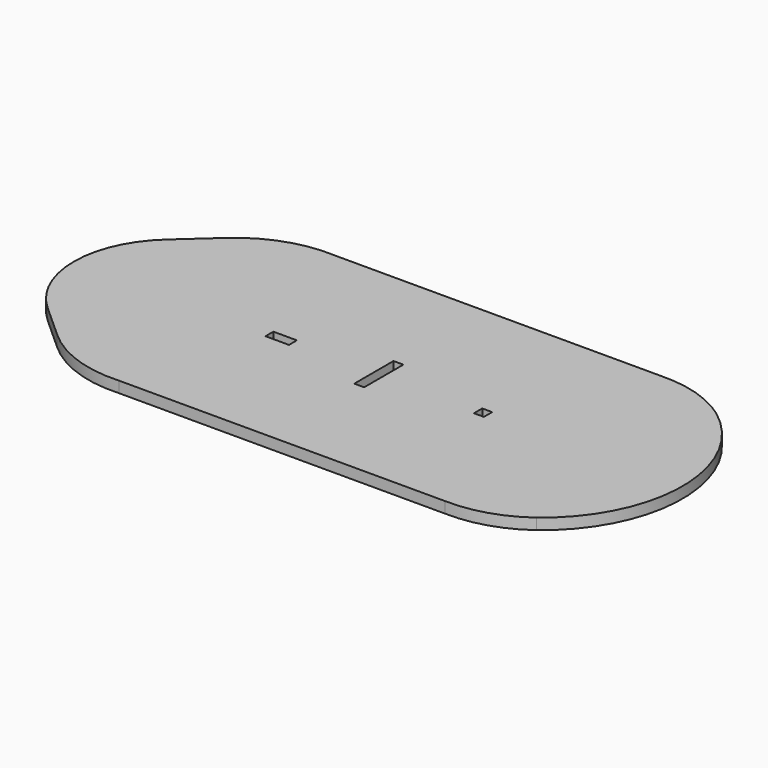
from build123d import *

# Parameters (mm, degrees)
F0_W     = 10
F0_H     = 4.2
F0_W_2   = 4.2
F0_H_2   = 4.413291
F0_H_3   = 20.833438
F1_DEPTH = 4.7


with BuildPart() as f1:
    # F0 (on Top) → F1 (new body)
    with BuildSketch(Plane.XY):
        with BuildLine():
            Line((60.865367, -358.828469), (-77.708804, -358.828469))
            ThreePointArc((-77.708804, -358.828469), (-97.459997, -361.638424), (-114.532973, -371.959227))
            Line((-114.532973, -371.959227), (-128.88431, -384.888843))
            ThreePointArc((-128.88431, -384.888843), (-142.876615, -416.328468), (-128.88431, -447.768092))
            Line((-128.88431, -447.768092), (-114.532973, -460.697708))
            ThreePointArc((-114.532973, -460.697708), (-97.459997, -471.018511), (-77.708804, -473.828466))
            Line((-77.708804, -473.828466), (60.865367, -473.828466))
            ThreePointArc((60.865367, -473.828466), (77.215853, -471.58945), (91.949804, -464.155589))
            ThreePointArc((91.949804, -464.155589), (115.720446, -416.328468), (91.949804, -368.501346))
            ThreePointArc((91.949804, -368.501346), (77.215853, -361.067485), (60.865367, -358.828469))
        make_face()
        with Locations((-54.699309, -416.435113)):
            Rectangle(F0_W, F0_H, mode=Mode.SUBTRACT)
        with Locations((31.005208, -416.328467)):
            Rectangle(F0_W_2, F0_H_2, mode=Mode.SUBTRACT)
        with Locations((-13.297051, -416.328468)):
            Rectangle(F0_W_2, F0_H_3, mode=Mode.SUBTRACT)
    extrude(amount=F1_DEPTH)


solid = f1.part
